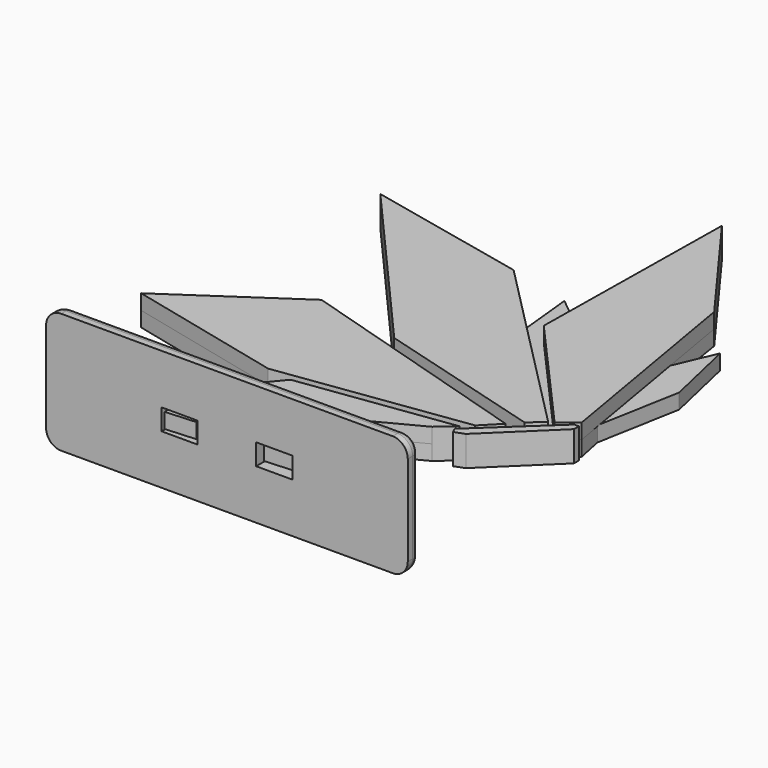
from build123d import *

# Parameters (mm, degrees)
PAD_DEPTH     = 5
PAD001_DEPTH  = 5
SKETCH002_W   = 10
SKETCH002_H   = 5
PAD002_DEPTH  = 5
SKETCH003_W   = 120
SKETCH003_H   = 40
SKETCH003_W_2 = 11.978817
SKETCH003_H_2 = 7
PAD003_DEPTH  = 5
FILLET_R      = 5
FILLET001_R   = 3


with BuildPart() as crimson1:
    # Sketch → Pad (new body)
    with BuildSketch(Plane.XY):
        Polygon((0, 0), (41.342239, 2.695221), (50.130628, 16.125288), (65.642386, 24.248433), (70.947124, 28.907119), (71.824751, 27.907784), (70.925883, 27.053597), (71.668747, 25.348383), (74.96798, 26.575357), (95.186996, 46.17579), (95.186996, 48.25579), (93.666996, 48.25579), (93.666996, 49.73579), (94.435999, 50.31045), (92.610365, 59.102917), (97.622013, 86.762553), (92.195176, 110.571917), (86.233652, 96.709438), (82.422322, 120.293455), (53.823043, 159.240902), (53.000333, 99.576574), (42.284177, 108.350769), (44.29107, 88.763312), (27.23285, 106.097658), (-26.410104, 117.872198), (26.855555, 57.048749), (33.636841, 55.120887), (38.997108, 49.775567), (-1.200761, 61.980951), (-40.001871, 35.6711), (9.181159, 23.908684), (4.172741, 20.641246), (15.463995, 17.965863), align=None)
    extrude(amount=PAD_DEPTH)

    # Sketch001 (on Face35 of Pad) → Pad001 (join)
    with BuildSketch(Plane.XY.offset(5)):
        Polygon((93.666996, 48.25579), (70.925883, 27.053597), (71.668747, 25.348383), (74.96798, 26.575357), (95.186996, 46.17579), (95.186996, 48.25579), align=None)
        Polygon((65.642386, 24.248433), (26.220729, 3.604233), (3.859567, 1.848298), (20.533019, 21.967266), (70.947124, 28.907119), align=None)
        Polygon((-1.200761, 61.980951), (79.482037, 37.483023), (73.900106, 31.830503), (12.098879, 23.210894), (-40.001871, 35.6711), align=None)
        Polygon((87.434093, 45.173665), (27.23285, 106.097658), (-26.410104, 117.872198), (26.855555, 57.048749), (82.846859, 41.130897), align=None)
        Polygon((94.435999, 50.31045), (82.422322, 120.293455), (53.823043, 159.240902), (52.821645, 86.617806), (88.864075, 46.036508), align=None)
    extrude(amount=PAD001_DEPTH)

    # Sketch002 (on Face1 of Pad001) → Pad002 (join)
    with BuildSketch(Plane(origin=(0, 0, 0), x_dir=(0.997882, 0.065055, 0), z_dir=(0.065055, -0.997882, 0))):
        with Locations((5, 2.5)):
            Rectangle(SKETCH002_W, SKETCH002_H)
        with Locations((36.43, 2.5)):
            Rectangle(SKETCH002_W, SKETCH002_H)
    extrude(amount=PAD002_DEPTH)


with BuildPart() as stand:
    # Sketch003 → Pad003 (new body)
    with BuildSketch(Plane.XZ):
        with Locations((20.996393, 2.5)):
            Rectangle(SKETCH003_W, SKETCH003_H)
        with Locations((36.678105, 2.5)):
            Rectangle(SKETCH003_W_2, SKETCH003_H_2, mode=Mode.SUBTRACT)
        with Locations((5.314682, 2.5)):
            Rectangle(SKETCH003_W_2, SKETCH003_H_2, mode=Mode.SUBTRACT)
    extrude(amount=PAD003_DEPTH)

    # Fillet
    fillet_edges = [stand.edges().sort_by_distance(p)[0] for p in [
        (80.996393, -2.5, 22.5),
        (80.996393, -2.5, -17.5),
        (-39.003607, -2.5, -17.5),
        (-39.003607, -2.5, 22.5),
    ]]
    fillet(fillet_edges, radius=FILLET_R)

    # Fillet001
    fillet001_edges = [stand.edges().sort_by_distance(p)[0] for p in [
        (-39.003607, 0, 2.5),
        (-37.539141, 0, -16.035534),
        (20.996393, 0, -17.5),
        (20.996393, 0, 22.5),
        (-37.539141, 0, 21.035534),
        (79.531927, 0, 21.035534),
        (80.996393, 0, 2.5),
        (79.531927, 0, -16.035534),
    ]]
    fillet(fillet001_edges, radius=FILLET001_R)


solid = Compound([crimson1.part, stand.part])
